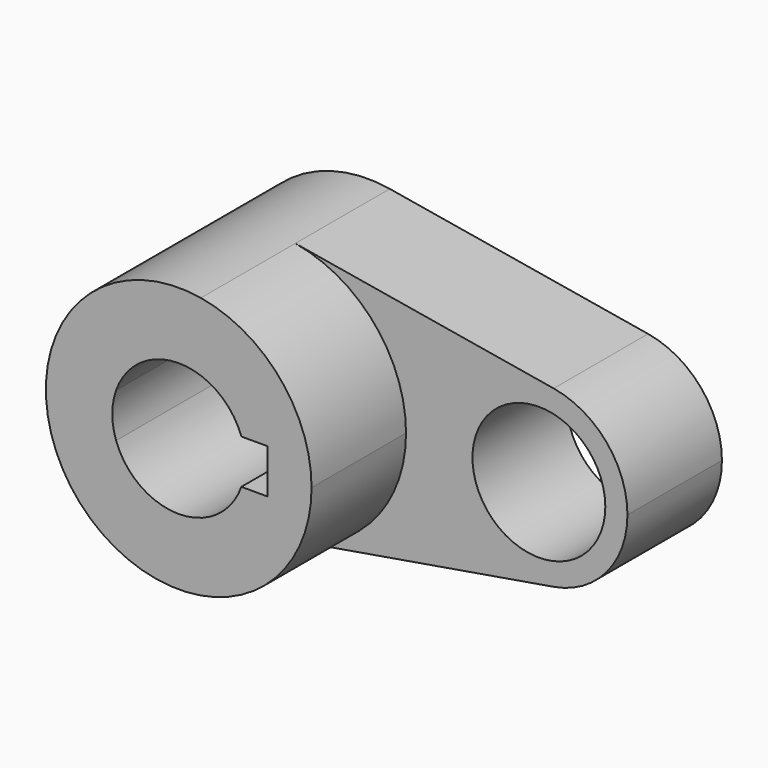
from build123d import *

# Parameters (mm, degrees)
F0_R     = 14.2875
F1_DEPTH = 25.4
F2_DEPTH = 50.8


with BuildPart() as f1:
    # F0 (on Front) → F1 (new body)
    with BuildSketch(Plane.XZ):
        with BuildLine():
            ThreePointArc((4.7625, -28.17533), (21.824517, -18.445083), (28.575, 0))
            ThreePointArc((28.575, 0), (21.824517, 18.445083), (4.7625, 28.17533))
            ThreePointArc((4.7625, 28.17533), (-28.575, 0), (4.7625, -28.17533))
        make_face()
        with BuildLine():
            ThreePointArc((-13.470384, 4.7625), (0, 14.2875), (13.470384, 4.7625))
            Line((13.470384, 4.7625), (19.05, 4.7625))
            Line((19.05, 4.7625), (19.05, -4.7625))
            Line((19.05, -4.7625), (13.470384, -4.7625))
            ThreePointArc((13.470384, -4.7625), (0, -14.2875), (-13.470384, -4.7625))
            Line((-13.470384, -4.7625), (-19.05, -4.7625))
            Line((-19.05, -4.7625), (-19.05, 4.7625))
            Line((-19.05, 4.7625), (-13.470384, 4.7625))
        make_face(mode=Mode.SUBTRACT)
        with BuildLine():
            ThreePointArc((4.7625, 28.17533), (21.824517, 18.445083), (28.575, 0))
            ThreePointArc((28.575, 0), (21.824517, -18.445083), (4.7625, -28.17533))
            Line((4.7625, -28.17533), (60.325, -18.783553))
            ThreePointArc((60.325, -18.783553), (38.1, 0), (60.325, 18.783553))
            Line((60.325, 18.783553), (4.7625, 28.17533))
        make_face()
        with BuildLine():
            ThreePointArc((76.2, 0), (71.699678, 12.296722), (60.325, 18.783553))
            ThreePointArc((60.325, 18.783553), (38.1, 0), (60.325, -18.783553))
            ThreePointArc((60.325, -18.783553), (71.699678, -12.296722), (76.2, 0))
        make_face()
        with Locations((57.15, 0)):
            Circle(F0_R, mode=Mode.SUBTRACT)
        with BuildLine():
            ThreePointArc((-13.470384, -4.7625), (-14.2875, 0), (-13.470384, 4.7625))
            Line((-13.470384, 4.7625), (-19.05, 4.7625))
            Line((-19.05, 4.7625), (-19.05, -4.7625))
            Line((-19.05, -4.7625), (-13.470384, -4.7625))
        make_face()
    extrude(amount=F1_DEPTH)

    # F0 (on Front) → F2 (join)
    with BuildSketch(Plane.XZ):
        with BuildLine():
            ThreePointArc((4.7625, -28.17533), (21.824517, -18.445083), (28.575, 0))
            ThreePointArc((28.575, 0), (21.824517, 18.445083), (4.7625, 28.17533))
            ThreePointArc((4.7625, 28.17533), (-28.575, 0), (4.7625, -28.17533))
        make_face()
        with BuildLine():
            ThreePointArc((-13.470384, 4.7625), (0, 14.2875), (13.470384, 4.7625))
            Line((13.470384, 4.7625), (19.05, 4.7625))
            Line((19.05, 4.7625), (19.05, -4.7625))
            Line((19.05, -4.7625), (13.470384, -4.7625))
            ThreePointArc((13.470384, -4.7625), (0, -14.2875), (-13.470384, -4.7625))
            Line((-13.470384, -4.7625), (-19.05, -4.7625))
            Line((-19.05, -4.7625), (-19.05, 4.7625))
            Line((-19.05, 4.7625), (-13.470384, 4.7625))
        make_face(mode=Mode.SUBTRACT)
        with BuildLine():
            ThreePointArc((-13.470384, -4.7625), (-14.2875, 0), (-13.470384, 4.7625))
            Line((-13.470384, 4.7625), (-19.05, 4.7625))
            Line((-19.05, 4.7625), (-19.05, -4.7625))
            Line((-19.05, -4.7625), (-13.470384, -4.7625))
        make_face()
    extrude(amount=F2_DEPTH)


solid = f1.part
